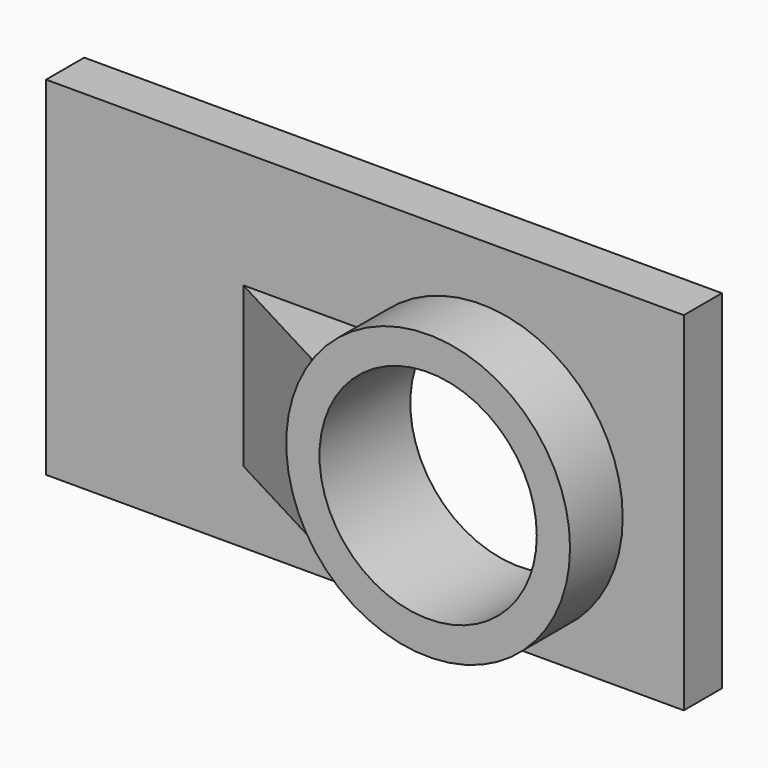
from build123d import *

# Parameters (mm, degrees)
F1_R     = 31.75
F1_R_2   = 24.309091266
F2_DEPTH = 25.4
F0_W     = 142.668440938
F0_H     = 77.8410565108
F3_DEPTH = 10.668
F5_DEPTH = 14.224
F7_DEPTH = 37.846
F8_DEPTH = 25.4


with BuildPart() as f2:
    # F1 (on Front) → F2 (new body)
    with BuildSketch(Plane.XZ):
        with Locations((26.0463114828, 4.9752164632)):
            Circle(F1_R)
        with Locations((26.0463114828, 4.9752164632)):
            Circle(F1_R_2, mode=Mode.SUBTRACT)
    extrude(amount=F2_DEPTH)

    # F0 (on Front) → F3 (join)
    with BuildSketch(Plane.XZ):
        with Locations((0.12049824, 10.3627415374)):
            Rectangle(F0_W, F0_H)
    extrude(amount=F3_DEPTH)

    # F4 (on face) → F5 (join)
    with BuildSketch(Plane.XZ.offset(10.668)):
        with BuildLine():
            ThreePointArc((-0.4795487258, -12.4730281532), (-5.7008090732, 5.4028102), (0, 23.1315420315))
            Line((0, 23.1315420315), (-27.0918570459, 23.1315420315))
            Line((-27.0918570459, 23.1315420315), (-27.0918570459, -12.4730281532))
            Line((-27.0918570459, -12.4730281532), (-0.4795487258, -12.4730281532))
        make_face()
    extrude(amount=F5_DEPTH)

    # F6 (on face) → F7 (cut)
    with BuildSketch(Plane(origin=(0, 0, -12.4730281532), x_dir=(1, 0, 0), z_dir=(0, 0, -1))):
        Polygon((-27.0918570459, 10.668), (-0.4795487258, 24.892), (-27.0918570459, 24.892), align=None)
    extrude(amount=-F7_DEPTH, mode=Mode.SUBTRACT)

    # F8 (cut): a face of the model
    f8_faces = [f2.faces().sort_by_distance(p)[0] for p in [
        (26.0463114828, -10.668, 4.9752164632),
    ]]
    extrude(f8_faces, amount=-F8_DEPTH, mode=Mode.SUBTRACT)


solid = f2.part
